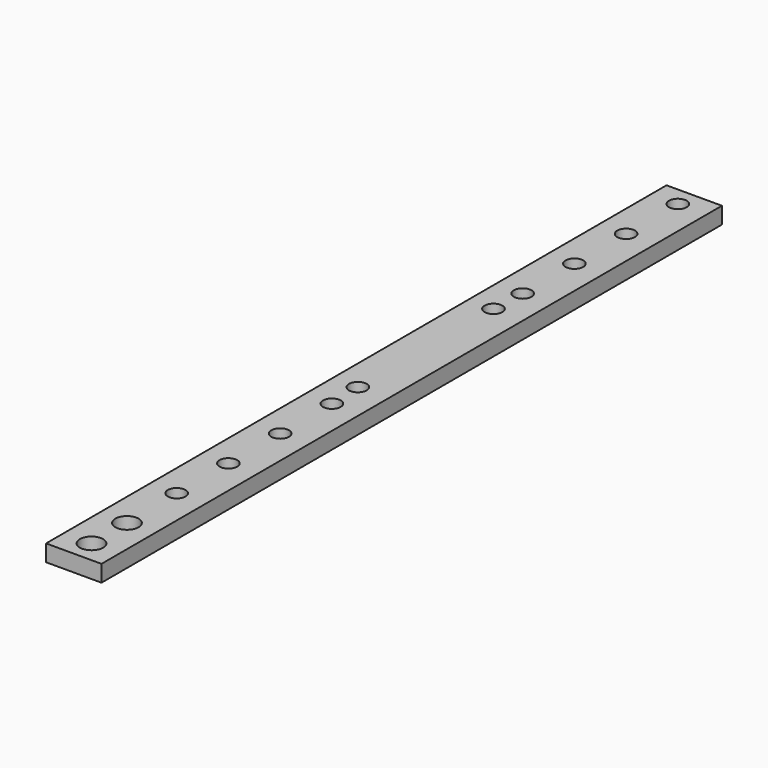
from build123d import *

# Parameters (mm, degrees)
CYLINDER011_R     = 2.1
CYLINDER011_DEPTH = 5
CYLINDER010_R     = 2.1
CYLINDER010_DEPTH = 5
CUBE002_W         = 10
CUBE002_H         = 20
CUBE002_DEPTH     = 3
CYLINDER009_R     = 1.6
CYLINDER009_DEPTH = 5
CYLINDER006_R     = 1.6
CYLINDER006_DEPTH = 5
CYLINDER007_R     = 1.6
CYLINDER007_DEPTH = 5
CYLINDER008_R     = 1.6
CYLINDER008_DEPTH = 5
CYLINDER005_R     = 1.6
CYLINDER005_DEPTH = 5
CUBE001_W         = 10
CUBE001_H         = 60
CUBE001_DEPTH     = 3
CYLINDER004_R     = 1.6
CYLINDER004_DEPTH = 5
CYLINDER001_R     = 1.6
CYLINDER001_DEPTH = 5
CYLINDER002_R     = 1.6
CYLINDER002_DEPTH = 5
CYLINDER003_R     = 1.6
CYLINDER003_DEPTH = 5
CYLINDER_R        = 1.6
CYLINDER_DEPTH    = 5
CUBE_W            = 10
CUBE_H            = 60
CUBE_DEPTH        = 3


with BuildPart() as cylinder011:
    # cylinder011 → cylinder011 (new body)
    with BuildSketch(Plane(origin=(5, -68, -1), x_dir=(1, 0, 0), z_dir=(0, 0, 1))):
        Circle(CYLINDER011_R)
    extrude(amount=CYLINDER011_DEPTH)


with BuildPart() as union002:
    # cylinder010 → cylinder010 (new body)
    with BuildSketch(Plane(origin=(5, -76, -1), x_dir=(1, 0, 0), z_dir=(0, 0, 1))):
        Circle(CYLINDER010_R)
    extrude(amount=CYLINDER010_DEPTH)

    # union002: union cylinder011
    add(cylinder011.part)


with BuildPart() as difference002:
    # cube002 → cube002 (new body)
    with BuildSketch(Plane(origin=(0, -80, 0), x_dir=(1, 0, 0), z_dir=(0, 0, 1))):
        with Locations((5, 10)):
            Rectangle(CUBE002_W, CUBE002_H)
    extrude(amount=CUBE002_DEPTH)

    # difference002: cut union002
    add(union002.part, mode=Mode.SUBTRACT)


with BuildPart() as cylinder009:
    # cylinder009 → cylinder009 (new body)
    with BuildSketch(Plane(origin=(4.52, 15.3, -1), x_dir=(1, 0, 0), z_dir=(0, 0, 1))):
        Circle(CYLINDER009_R)
    extrude(amount=CYLINDER009_DEPTH)


with BuildPart() as cylinder006:
    # cylinder006 → cylinder006 (new body)
    with BuildSketch(Plane(origin=(4.81, 44.87, -1), x_dir=(1, 0, 0), z_dir=(0, 0, 1))):
        Circle(CYLINDER006_R)
    extrude(amount=CYLINDER006_DEPTH)


with BuildPart() as cylinder007:
    # cylinder007 → cylinder007 (new body)
    with BuildSketch(Plane(origin=(4.81, 33.2, -1), x_dir=(1, 0, 0), z_dir=(0, 0, 1))):
        Circle(CYLINDER007_R)
    extrude(amount=CYLINDER007_DEPTH)


with BuildPart() as cylinder008:
    # cylinder008 → cylinder008 (new body)
    with BuildSketch(Plane(origin=(4.81, 21.53, -1), x_dir=(1, 0, 0), z_dir=(0, 0, 1))):
        Circle(CYLINDER008_R)
    extrude(amount=CYLINDER008_DEPTH)


with BuildPart() as union001:
    # cylinder005 → cylinder005 (new body)
    with BuildSketch(Plane(origin=(4.81, 56.54, -1), x_dir=(1, 0, 0), z_dir=(0, 0, 1))):
        Circle(CYLINDER005_R)
    extrude(amount=CYLINDER005_DEPTH)

    # Group001: union cylinder006, cylinder007, cylinder008
    add(cylinder006.part)
    add(cylinder007.part)
    add(cylinder008.part)

    # union001: union cylinder009
    add(cylinder009.part)


with BuildPart() as difference001:
    # cube001 → cube001 (new body)
    with BuildSketch(Plane.XY):
        with Locations((5, 30)):
            Rectangle(CUBE001_W, CUBE001_H)
    extrude(amount=CUBE001_DEPTH)

    # difference001: cut union001
    add(union001.part, mode=Mode.SUBTRACT)


with BuildPart() as mirrored_difference001:
    # mirr_difference001: instance of difference001
    add(difference001.part.mirror(Plane(origin=(0, 0, 0), x_dir=(1, 0, 0), z_dir=(0, 1, 0))))


with BuildPart() as cylinder004:
    # cylinder004 → cylinder004 (new body)
    with BuildSketch(Plane(origin=(4.52, 15.3, -1), x_dir=(1, 0, 0), z_dir=(0, 0, 1))):
        Circle(CYLINDER004_R)
    extrude(amount=CYLINDER004_DEPTH)


with BuildPart() as cylinder001:
    # cylinder001 → cylinder001 (new body)
    with BuildSketch(Plane(origin=(4.81, 44.87, -1), x_dir=(1, 0, 0), z_dir=(0, 0, 1))):
        Circle(CYLINDER001_R)
    extrude(amount=CYLINDER001_DEPTH)


with BuildPart() as cylinder002:
    # cylinder002 → cylinder002 (new body)
    with BuildSketch(Plane(origin=(4.81, 33.2, -1), x_dir=(1, 0, 0), z_dir=(0, 0, 1))):
        Circle(CYLINDER002_R)
    extrude(amount=CYLINDER002_DEPTH)


with BuildPart() as cylinder003:
    # cylinder003 → cylinder003 (new body)
    with BuildSketch(Plane(origin=(4.81, 21.53, -1), x_dir=(1, 0, 0), z_dir=(0, 0, 1))):
        Circle(CYLINDER003_R)
    extrude(amount=CYLINDER003_DEPTH)


with BuildPart() as union:
    # cylinder → cylinder (new body)
    with BuildSketch(Plane(origin=(4.81, 56.54, -1), x_dir=(1, 0, 0), z_dir=(0, 0, 1))):
        Circle(CYLINDER_R)
    extrude(amount=CYLINDER_DEPTH)

    # Group: union cylinder001, cylinder002, cylinder003
    add(cylinder001.part)
    add(cylinder002.part)
    add(cylinder003.part)

    # union: union cylinder004
    add(cylinder004.part)


with BuildPart() as obj1:
    # cube → cube (new body)
    with BuildSketch(Plane.XY):
        with Locations((5, 30)):
            Rectangle(CUBE_W, CUBE_H)
    extrude(amount=CUBE_DEPTH)

    # difference: cut union
    add(union.part, mode=Mode.SUBTRACT)

    # Group002: union mirrored difference001
    add(mirrored_difference001.part)

    # union003: union difference002
    add(difference002.part)


solid = obj1.part
